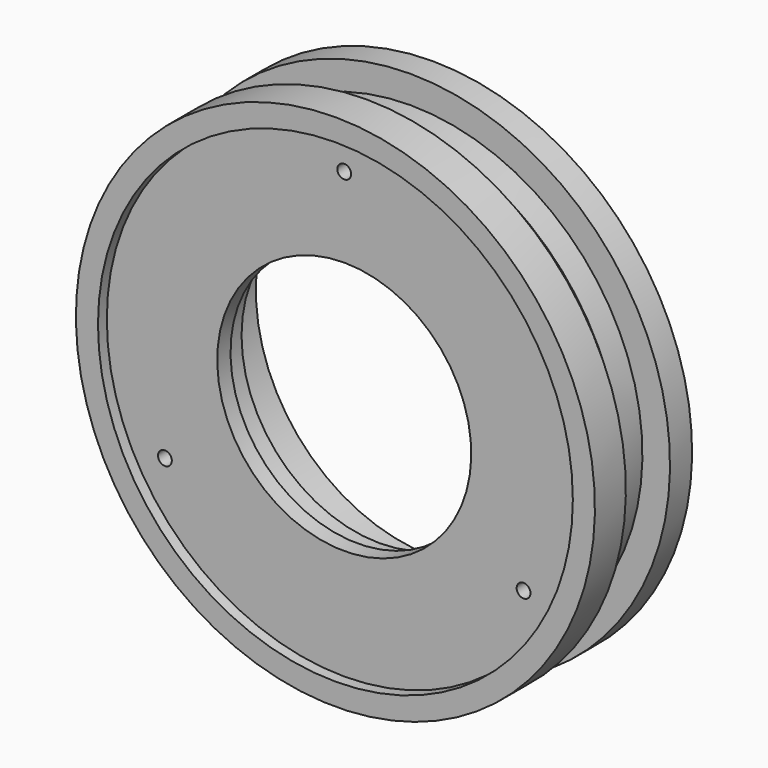
from build123d import *

# Parameters (mm, degrees)
F3_D     = 2
F3_DEPTH = 5
F3_TIP   = 0.600860619
F4_W     = 2
F4_H     = 4
F7_D     = 2.5
F7_DEPTH = 6.5
F7_TIP   = 0.7510757738


with BuildPart() as f1:
    # F0 (on Right) → F1 (revolve)
    with BuildSketch(Plane.YZ):
        Polygon((5, 47), (0, 47), (0, 23), (3, 23), (3, 25), (8, 25), (8, 32), (20, 32), (20, 47), (15, 47), (15, 42), (10, 42), align=None)
    revolve(axis=Axis((0, 13.034472242, 0), (0, 1, 0)))

    # F3
    with Locations(Plane(origin=(0, 8, 0), x_dir=(-1, 0, 0), z_dir=(0, 1, 0))):
        with Locations((0, 28.5), (24.6817240079, -14.25), (-24.6817240079, -14.25)):
            Hole(F3_D / 2, depth=F3_DEPTH)
            with Locations((0, 0, -(F3_DEPTH + F3_TIP / 2))):  # 118° drill point
                Cone(0, F3_D / 2, F3_TIP, mode=Mode.SUBTRACT)

    # F4 (on Right) → F5 (revolve)
    with BuildSketch(Plane.YZ):
        with Locations((-1, 45)):
            Rectangle(F4_W, F4_H)
    revolve(axis=Axis((0, -7.9047670588, 0), (0, -1, 0)))

    # F7
    with Locations(Plane.XZ):
        with Locations((0, 37.5), (32.4759526419, -18.75), (-32.4759526419, -18.75)):
            Hole(F7_D / 2, depth=F7_DEPTH)
            with Locations((0, 0, -(F7_DEPTH + F7_TIP / 2))):  # 118° drill point
                Cone(0, F7_D / 2, F7_TIP, mode=Mode.SUBTRACT)


solid = f1.part
